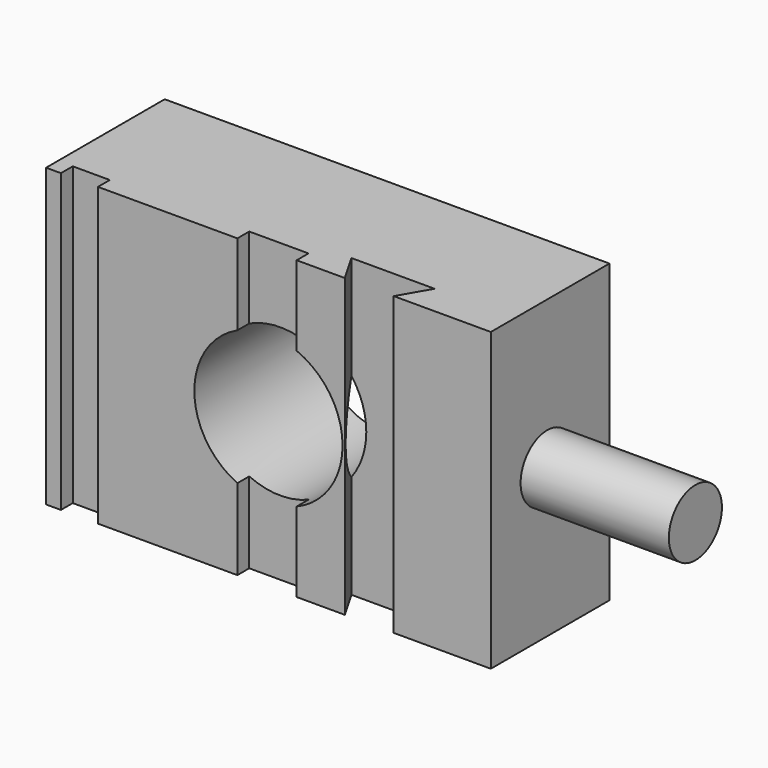
from build123d import *

# Parameters (mm, degrees)
F0_W     = 76.2
F0_H     = 50.8
F0_R     = 12.7
F1_DEPTH = 25.4
F2_W     = 6.35
F2_H     = 50.8
F3_DEPTH = 2.54
F5_DEPTH = 50.801
F6_R     = 5.6836781625
F7_DEPTH = 25.4


with BuildPart() as f1:
    # F0 (on Front) → F1 (new body)
    with BuildSketch(Plane.XZ):
        Rectangle(F0_W, F0_H)
        Circle(F0_R, mode=Mode.SUBTRACT)
    extrude(amount=F1_DEPTH)

    # F2 (on face) → F3 (cut)
    with BuildSketch(Plane.XZ.offset(25.4)):
        with Locations((-32.385, 0)):
            Rectangle(F2_W, F2_H)
        with BuildLine():
            Line((-5.324405618, -11.5299915358), (-5.324405618, -25.4))
            Line((-5.324405618, -25.4), (4.835594382, -25.4))
            Line((4.835594382, -25.4), (4.835594382, -11.7433822629))
            ThreePointArc((4.835594382, -11.7433822629), (-0.2666795956, -12.6971997698), (-5.324405618, -11.5299915358))
        make_face()
        with BuildLine():
            Line((4.835594382, 25.4), (-5.324405618, 25.4))
            Line((-5.324405618, 25.4), (-5.324405618, 11.5299915358))
            ThreePointArc((-5.324405618, 11.5299915358), (-0.2666795956, 12.6971997698), (4.835594382, 11.7433822629))
            Line((4.835594382, 11.7433822629), (4.835594382, 25.4))
        make_face()
    extrude(amount=-F3_DEPTH, mode=Mode.SUBTRACT)

    # F4 (on face) → F5 (cut, through all)
    with BuildSketch(Plane(origin=(0, 0, -25.4), x_dir=(1, 0, 0), z_dir=(0, 0, -1))):
        Polygon((21.467797191, 25.4), (13.0851396952, 25.4), (10.1522003277, 20.32), (24.4007365585, 20.32), align=None)
    extrude(amount=-F5_DEPTH, mode=Mode.SUBTRACT)

    # F6 (on face) → F7 (join)
    with BuildSketch(Plane.YZ.offset(38.1)):
        with Locations((-13.3386543021, 0)):
            Circle(F6_R)
    extrude(amount=F7_DEPTH)


solid = f1.part
